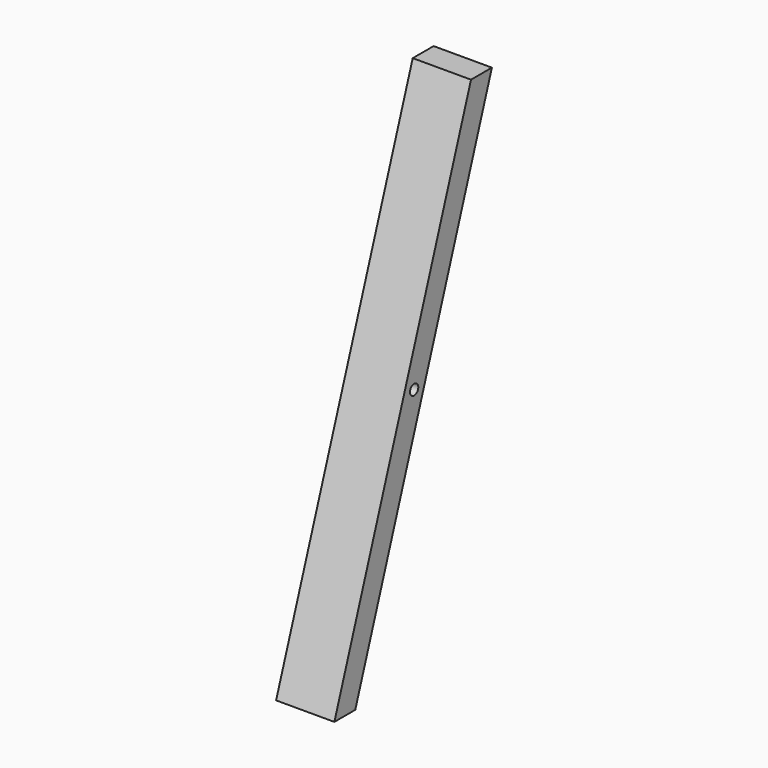
from build123d import *

# Parameters (mm, degrees)
F1_DEPTH       = 44.45
F1_DEPTH_BACK  = 44.45
F3_D           = 9.525
F3_DEPTH       = 31.75
F3_CBORE_D     = 15.875
F3_CBORE_DEPTH = 25.4
F5_D           = 9.525
F5_CBORE_D     = 15.875
F5_CBORE_DEPTH = 12.7


with BuildPart() as f1:
    # F0 (on Right) → F1 (new body, two sides)
    with BuildSketch(Plane.YZ) as f1_sk:
        Polygon((-4.600528, -23.008825), (-44.441384, -23.008825), (-304.928464, -779.518237), (-265.087608, -779.518237), align=None)
    extrude(amount=F1_DEPTH)
    extrude(f1_sk.sketch, amount=-F1_DEPTH_BACK)

    # F3
    with Locations(Plane(origin=(-44.45, 0, 0), x_dir=(0, -1, 0), z_dir=(-1, 0, 0))):
        with Locations((152.900278, -395.189479)):
            CounterBoreHole(F3_D / 2, F3_CBORE_D / 2, F3_CBORE_DEPTH, depth=F3_DEPTH)

    # F5 (through all)
    with Locations(Plane.YZ.offset(44.45)):
        with Locations((-152.900278, -395.189479)):
            CounterBoreHole(F5_D / 2, F5_CBORE_D / 2, F5_CBORE_DEPTH)


solid = f1.part
